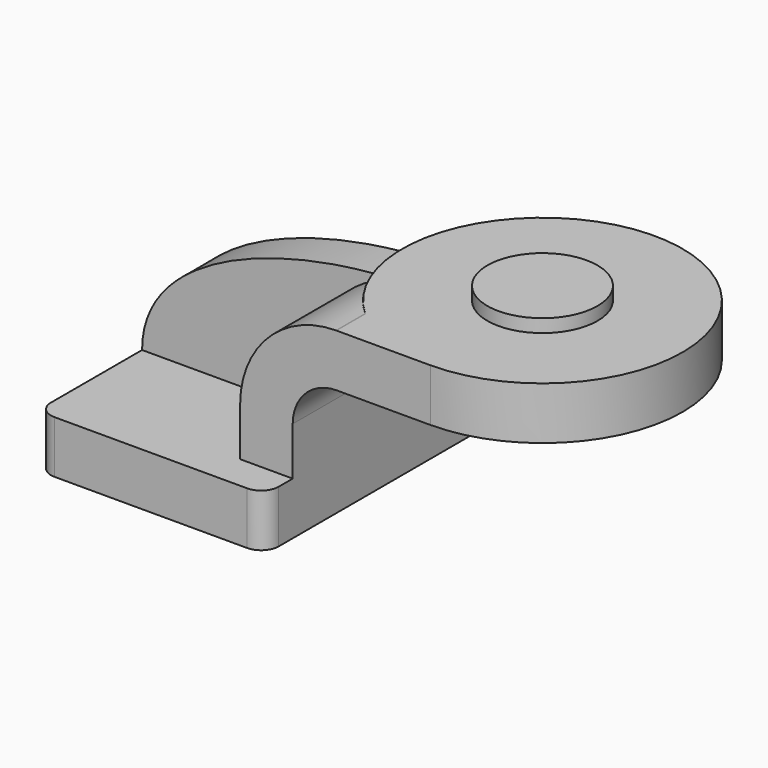
from build123d import *

# Parameters (mm, degrees)
F1_DEPTH  = 63.5
F0_W      = 30.8390699949
F0_H      = 19.05
F2_DEPTH  = 50.8
F3_DEPTH  = 15.875
F2_FACE_W = 50.8
F2_FACE_H = 19.05
F5_R      = 6.35


with BuildPart() as f1:
    # F0 (on Front) → F1 (new body, symmetric)
    with BuildSketch(Plane.XZ):
        Polygon((-41.275, -9.525), (41.275, -9.525), (41.275, 9.525), (22.225, 9.525), (-41.275, 9.525), align=None)
    extrude(amount=F1_DEPTH, both=True)

    # F0 (on Front) → F2 (join)
    with BuildSketch(Plane.XZ):
        with BuildLine():
            Line((22.225, 9.525), (41.275, 9.525))
            Line((41.275, 9.525), (41.275, 27.0002))
            ThreePointArc((41.275, 27.0002), (45.9246798487, 38.2255201513), (57.15, 42.8752))
            Line((57.15, 42.8752), (60.325, 42.8752))
            Line((60.325, 42.8752), (60.325, 61.9252))
            Line((60.325, 61.9252), (57.15, 61.9252))
            add(Edge.make_bspline(
                [(56.931387773, 61.9245157942), (57.0043014085, 61.9247938366), (57.0771722736, 61.9250219014), (57.15, 61.9252)],
                knots=[111.311302115, 111.311302115, 111.311302115, 111.311302115, 111.5045361635, 111.5045361635, 111.5045361635, 111.5045361635], degree=3))
            ThreePointArc((56.931387773, 61.9245157942), (32.3771251463, 51.6184919084), (22.225, 27.0002))
            Line((22.225, 27.0002), (22.225, 9.525))
        make_face()
        with Locations((75.7445349974, 52.4002)):
            Rectangle(F0_W, F0_H)
    extrude(amount=F2_DEPTH)

    # F0 (on Front) → F3 (join)
    with BuildSketch(Plane.XZ):
        with BuildLine():
            add(Edge.make_bspline(
                [(-41.275, 9.525), (-41.2639124943, 45.0202943965), (14.9299300749, 61.764351157), (56.931387773, 61.9245157942)],
                knots=[0, 0, 0, 0, 111.311302115, 111.311302115, 111.311302115, 111.311302115], degree=3))
            Line((-41.275, 9.525), (22.225, 9.525))
            Line((22.225, 9.525), (22.225, 27.0002))
            ThreePointArc((22.225, 27.0002), (32.3771251463, 51.6184919084), (56.931387773, 61.9245157942))
        make_face()
    extrude(amount=F3_DEPTH)

    # F0 (on Front) + F2_face (on face) → F4 (revolve)
    with BuildSketch(Plane.XZ):
        Polygon((91.1640699949, 61.9252), (91.1640699949, 42.8752), (91.1640699949, 38.1), (111.125, 38.1), (111.125, 66.675), (91.1640699949, 66.675), align=None)
    with BuildSketch(Plane(origin=(91.1640699949, -25.4, 52.4002), x_dir=(0, 1, 0), z_dir=(1, 0, 0))):
        Rectangle(F2_FACE_W, F2_FACE_H)
    revolve(axis=Axis((91.1640699949, 0, 52.3875), (0, 0, 1)))

    # F5
    f5_edges = [f1.edges().sort_by_distance(p)[0] for p in [
        (41.275, -63.5, 0),
        (-41.275, -63.5, 0),
        (-41.275, 31.75, 9.525),
        (41.275, 63.5, 0),
    ]]
    fillet(f5_edges, radius=F5_R)


solid = f1.part
